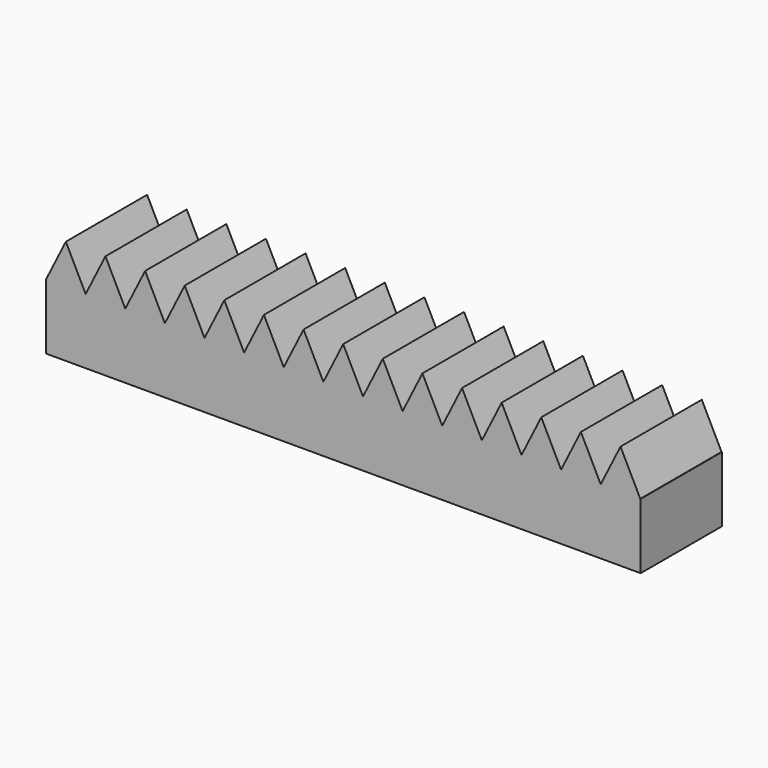
from build123d import *

# Parameters (mm, degrees)
F1_DEPTH = 25.4


with BuildPart() as f1:
    # F0 (on Front) → F1 (new body)
    with BuildSketch(Plane.XZ):
        Polygon((54.433102, 0), (64.313702, 0), (59.373402, 9.891078), align=None)
        Polygon((44.527102, 0), (54.407702, 0), (49.467402, 9.891078), align=None)
        Polygon((34.621102, 0), (44.501702, 0), (39.561402, 9.891078), align=None)
        Polygon((24.715102, 0), (34.595702, 0), (29.655402, 9.891078), align=None)
        Polygon((19.749402, 9.891078), (14.809102, 0), (24.689702, 0), align=None)
        Polygon((9.843402, 9.891078), (4.903102, 0), (14.783702, 0), align=None)
        Polygon((-0.062598, 9.891078), (-5.002898, 0), (4.877702, 0), align=None)
        Polygon((-9.968598, 9.891078), (-14.908898, 0), (-5.028298, 0), align=None)
        Polygon((-19.874598, 9.891078), (-24.814898, 0), (-14.934298, 0), align=None)
        Polygon((-29.780598, 9.891078), (-34.720898, 0), (-24.840298, 0), align=None)
        Polygon((-39.686598, 9.891078), (-44.626898, 0), (-34.746298, 0), align=None)
        Polygon((-49.592598, 9.891078), (-54.532898, 0), (-44.652298, 0), align=None)
        Polygon((-59.498598, 9.891078), (-64.438898, 0), (-54.558298, 0), align=None)
        Polygon((74.245102, 0), (84.125702, 0), (79.185402, 9.891078), align=None)
        Polygon((64.339102, 0), (74.219702, 0), (69.279402, 9.891078), align=None)
        Polygon((-54.558298, 0), (-64.438898, 0), (-64.438898, -16.354553), (84.22105, -16.354553), (84.22105, 0), (84.125702, 0), (74.245102, 0), (74.219702, 0), (64.339102, 0), (64.313702, 0), (54.433102, 0), (54.407702, 0), (44.527102, 0), (44.501702, 0), (34.621102, 0), (34.595702, 0), (24.715102, 0), (24.689702, 0), (14.809102, 0), (14.783702, 0), (4.903102, 0), (4.877702, 0), (-5.002898, 0), (-5.028298, 0), (-14.908898, 0), (-14.934298, 0), (-24.814898, 0), (-24.840298, 0), (-34.720898, 0), (-34.746298, 0), (-44.626898, 0), (-44.652298, 0), (-54.532898, 0), align=None)
    extrude(amount=F1_DEPTH)


solid = f1.part
